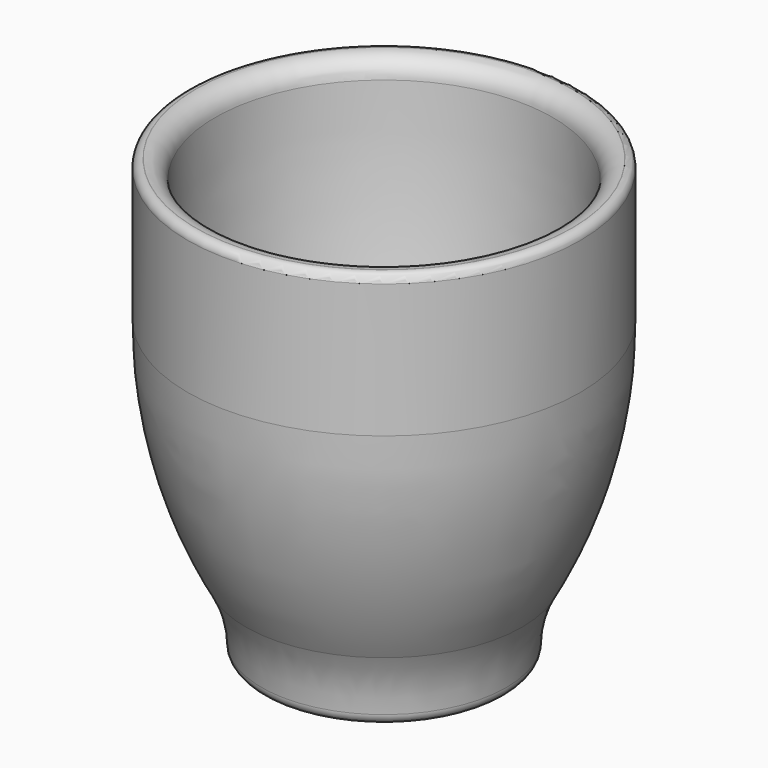
from build123d import *


with BuildPart() as f1:
    # F0 (on Front) → F1 (revolve)
    with BuildSketch(Plane.XZ):
        with BuildLine():
            Line((20.446299, 0), (0, 0))
            Line((0, 0), (0, -3.81))
            ThreePointArc((0, -3.81), (11.167924, -4.367007), (22.225, -6.0325))
            ThreePointArc((22.225, -6.0325), (24.154053, -6.301517), (26.101491, -6.334647))
            ThreePointArc((26.101491, -6.334647), (27.810004, -5.569227), (28.529983, -3.841073))
            ThreePointArc((28.529983, -3.841073), (29.510142, 3.143445), (32.149958, 9.68375))
            ThreePointArc((32.149958, 9.68375), (42.272677, 35.079709), (45.72, 62.200552))
            Line((45.72, 62.200552), (45.72, 93.345))
            ThreePointArc((45.72, 93.345), (45.162038, 94.692038), (43.815, 95.25))
            Line((43.815, 95.25), (43.762631, 95.25))
            ThreePointArc((43.762631, 95.25), (40.650525, 93.978771), (39.318487, 90.892203))
            ThreePointArc((39.318487, 90.892203), (34.722413, 45.612208), (22.83597, 1.679142))
            ThreePointArc((22.83597, 1.679142), (21.906611, 0.461758), (20.446299, 0))
        make_face()
    revolve(axis=Axis((0, 0, 44.45), (0, 0, 1)))


solid = f1.part
